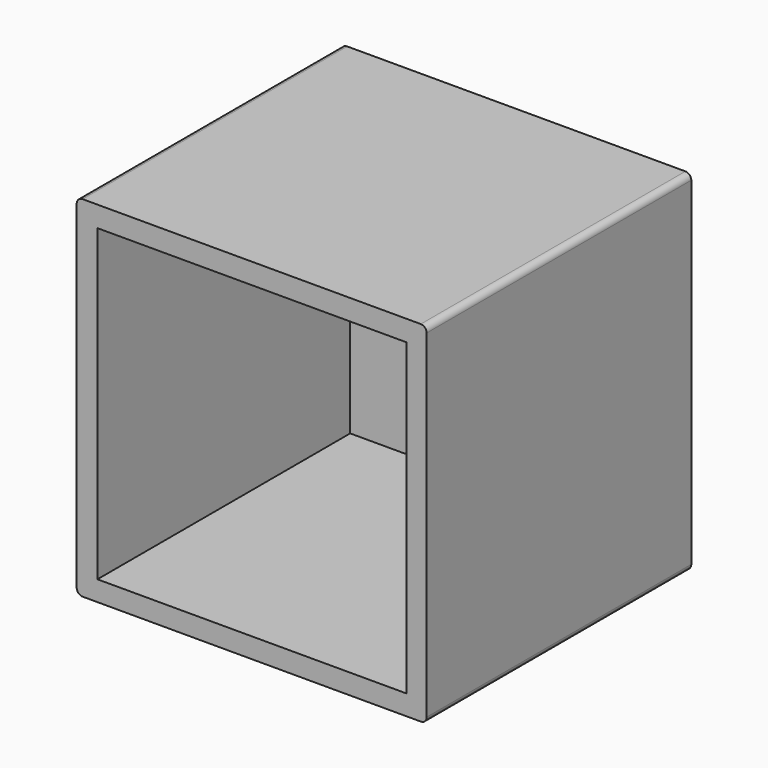
from build123d import *

# Parameters (mm, degrees)
F0_W     = 30.0482
F0_H     = 30.0482
F1_DEPTH = 28.3972
F2_W     = 26.543
F2_H     = 26.543
F3_DEPTH = 27.1272
F4_R     = 0.508


with BuildPart() as f1:
    # F0 (on Front) → F1 (new body)
    with BuildSketch(Plane.XZ):
        with Locations((1.779277, -2.752393)):
            Rectangle(F0_W, F0_H)
    extrude(amount=F1_DEPTH)

    # F2 (on face) → F3 (cut)
    with BuildSketch(Plane.XZ.offset(28.3972)):
        with Locations((1.804677, -2.777793)):
            Rectangle(F2_W, F2_H)
    extrude(amount=-F3_DEPTH, mode=Mode.SUBTRACT)

    # F4
    f4_edges = [f1.edges().sort_by_distance(p)[0] for p in [
        (-13.244823, -14.1986, 12.271707),
        (-13.244823, -14.1986, -17.776493),
        (16.803377, -14.1986, 12.271707),
        (16.803377, -14.1986, -17.776493),
    ]]
    fillet(f4_edges, radius=F4_R)


solid = f1.part
